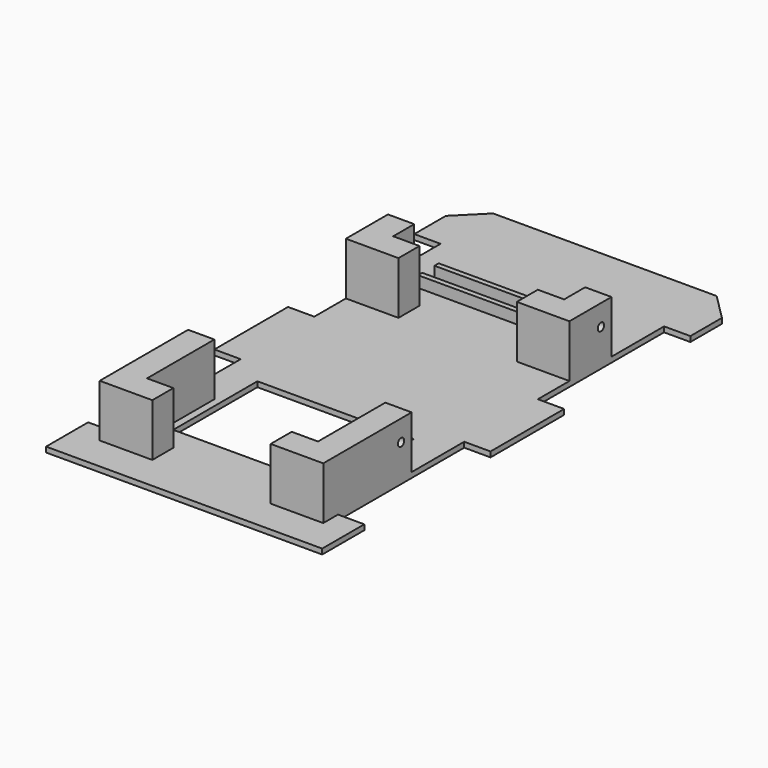
from build123d import *

# Parameters (mm, degrees)
PAD_DEPTH       = 2
SKETCH007_W     = 10
SKETCH007_H     = 60
SKETCH007_W_2   = 59.5
SKETCH007_H_2   = 40
POCKET001_DEPTH = 2
SKETCH016_W     = 10
SKETCH016_H     = 20
PAD006_DEPTH    = 10
SKETCH014_R     = 1.5
POCKET002_DEPTH = 2
SKETCH015_R     = 1.5
POCKET003_DEPTH = 2
SKETCH036_W     = 10
SKETCH036_H     = 20
PAD018_DEPTH    = 10
SKETCH037_R     = 1.5
POCKET009_DEPTH = 2
SKETCH038_R     = 1.5
POCKET010_DEPTH = 2
SKETCH059_W     = 60
SKETCH059_H     = 2
PAD033_DEPTH    = 4.25
SKETCH063_W     = 20
SKETCH063_H     = 20
PAD037_DEPTH    = 10
SKETCH065_W     = 10
SKETCH065_H     = 20
PAD038_DEPTH    = 22
SKETCH066_W     = 20
SKETCH066_H     = 20
PAD039_DEPTH    = 10


with BuildPart() as part:
    # Sketch → Pad (new body)
    with BuildSketch(Plane.XY):
        Polygon((0, 0), (0, 190), (10, 200), (95, 200), (105, 190), (105, 0), align=None)
    extrude(amount=PAD_DEPTH)

    # Sketch007 (on Face8 of Pad) → Pocket001 (cut)
    with BuildSketch(Plane.XY.offset(2)):
        with Locations((5, 50)):
            Rectangle(SKETCH007_W, SKETCH007_H)
        with Locations((100, 50)):
            Rectangle(SKETCH007_W, SKETCH007_H)
        with Locations((5, 145)):
            Rectangle(SKETCH007_W, SKETCH007_H)
        with Locations((100, 145)):
            Rectangle(SKETCH007_W, SKETCH007_H)
        with Locations((52.5, 52)):
            Rectangle(SKETCH007_W_2, SKETCH007_H_2)
    extrude(amount=-POCKET001_DEPTH, mode=Mode.SUBTRACT)

    # Sketch016 → Pad006 (join)
    with BuildSketch(Plane.XZ.offset(-45)):
        with Locations((15, 12)):
            Rectangle(SKETCH016_W, SKETCH016_H)
        with Locations((90, 12)):
            Rectangle(SKETCH016_W, SKETCH016_H)
    extrude(amount=-PAD006_DEPTH)

    # Sketch014 → Pocket002 (cut)
    with BuildSketch(Plane.YZ.offset(10)):
        with Locations((50, 14)):
            Circle(SKETCH014_R)
    extrude(amount=POCKET002_DEPTH, mode=Mode.SUBTRACT)

    # Sketch015 → Pocket003 (cut)
    with BuildSketch(Plane.YZ.offset(95)):
        with Locations((50, 14)):
            Circle(SKETCH015_R)
    extrude(amount=-POCKET003_DEPTH, mode=Mode.SUBTRACT)

    # Sketch036 → Pad018 (join)
    with BuildSketch(Plane.XZ.offset(-140)):
        with Locations((90, 12)):
            Rectangle(SKETCH036_W, SKETCH036_H)
        with Locations((15, 12)):
            Rectangle(SKETCH036_W, SKETCH036_H)
    extrude(amount=-PAD018_DEPTH)

    # Sketch037 (on Face42 of Pad018) → Pocket009 (cut)
    with BuildSketch(Plane(origin=(10, 0, 0), x_dir=(0, -1, 0), z_dir=(-1, 0, 0))):
        with Locations((-145, 14)):
            Circle(SKETCH037_R)
    extrude(amount=-POCKET009_DEPTH, mode=Mode.SUBTRACT)

    # Sketch038 (on Face43 of Pad018) → Pocket010 (cut)
    with BuildSketch(Plane.YZ.offset(95)):
        with Locations((145, 14)):
            Circle(SKETCH038_R)
    extrude(amount=-POCKET010_DEPTH, mode=Mode.SUBTRACT)

    # Sketch059 (on Face4 of Pocket010) → Pad033 (join)
    with BuildSketch(Plane.XY.offset(2)):
        with Locations((52.5, 157.48)):
            Rectangle(SKETCH059_W, SKETCH059_H)
        with Locations((52.5, 149.68)):
            Rectangle(SKETCH059_W, SKETCH059_H)
    extrude(amount=PAD033_DEPTH)

    # Sketch063 (on Face35 of Pad033) → Pad037 (join)
    with BuildSketch(Plane.XZ.offset(-140)):
        with Locations((20, 12)):
            Rectangle(SKETCH063_W, SKETCH063_H)
        with Locations((85, 12)):
            Rectangle(SKETCH063_W, SKETCH063_H)
    extrude(amount=PAD037_DEPTH)

    # Sketch065 (on Face29 of Pad037) → Pad038 (join)
    with BuildSketch(Plane.XZ.offset(-45)):
        with Locations((15, 12)):
            Rectangle(SKETCH065_W, SKETCH065_H)
        with Locations((90, 12)):
            Rectangle(SKETCH065_W, SKETCH065_H)
    extrude(amount=PAD038_DEPTH)

    # Sketch066 (on Face29 of Pad038) → Pad039 (join)
    with BuildSketch(Plane.XZ.offset(-23)):
        with Locations((20, 12)):
            Rectangle(SKETCH066_W, SKETCH066_H)
        with Locations((85, 12)):
            Rectangle(SKETCH066_W, SKETCH066_H)
    extrude(amount=PAD039_DEPTH)


solid = part.part
